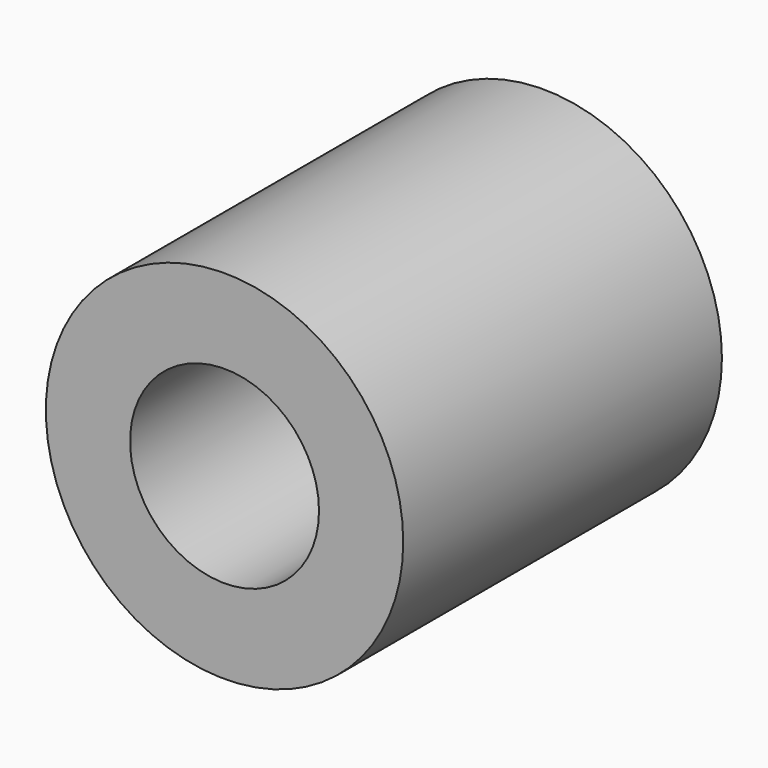
from build123d import *

# Parameters (mm, degrees)
F0_R     = 7.85
F0_R_2   = 4.15
F1_DEPTH = 17.5


with BuildPart() as f1:
    # F0 (on Front) → F1 (new body)
    with BuildSketch(Plane.XZ):
        with Locations((-40.776342, 37.519068)):
            Circle(F0_R)
        with Locations((-40.776342, 37.519068)):
            Circle(F0_R_2, mode=Mode.SUBTRACT)
    extrude(amount=-F1_DEPTH)


solid = f1.part
